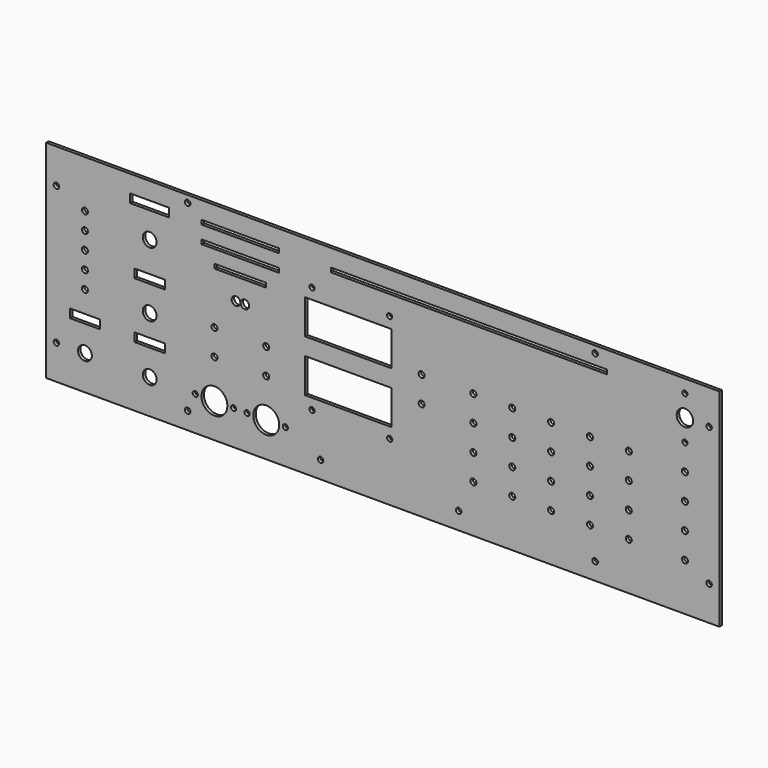
from build123d import *

# Parameters (mm, degrees)
F0_W     = 390
F0_H     = 120
F0_R     = 1.6
F0_R_2   = 4
F0_R_3   = 1.5
F0_R_4   = 7.5
F0_W_2   = 17.5
F0_H_2   = 5
F0_R_5   = 1.75
F0_W_3   = 50
F0_H_3   = 20
F0_R_6   = 2.5
F0_W_4   = 30
F0_H_4   = 2.5
F0_W_5   = 22.5
F0_W_6   = 45
F0_W_7   = 160
F0_R_7   = 4.75
F1_DEPTH = 1.8


with BuildPart() as f1:
    # F0 (on Front) → F1 (new body)
    with BuildSketch(Plane.XZ):
        Rectangle(F0_W, F0_H)
        with Locations((-113, -50)):
            Circle(F0_R, mode=Mode.SUBTRACT)
        with Locations((-189, -40)):
            Circle(F0_R, mode=Mode.SUBTRACT)
        with Locations((-172.5, -40)):
            Circle(F0_R_2, mode=Mode.SUBTRACT)
        with Locations((-135, -40)):
            Circle(F0_R_2, mode=Mode.SUBTRACT)
        with Locations((-108.6, -40)):
            Circle(F0_R_3, mode=Mode.SUBTRACT)
        with Locations((-36, -50)):
            Circle(F0_R, mode=Mode.SUBTRACT)
        with Locations((-97.5, -40)):
            Circle(F0_R_4, mode=Mode.SUBTRACT)
        with Locations((-86.4, -40)):
            Circle(F0_R_3, mode=Mode.SUBTRACT)
        with Locations((-78.6, -40)):
            Circle(F0_R_3, mode=Mode.SUBTRACT)
        with Locations((-67.5, -40)):
            Circle(F0_R_4, mode=Mode.SUBTRACT)
        with Locations((-56.4, -40)):
            Circle(F0_R_3, mode=Mode.SUBTRACT)
        with Locations((-172.5, -22.5)):
            Rectangle(F0_W_2, F0_H_2, mode=Mode.SUBTRACT)
        with Locations((-135, -22.5)):
            Rectangle(F0_W_2, F0_H_2, mode=Mode.SUBTRACT)
        with Locations((-172.5, -7.5)):
            Circle(F0_R_5, mode=Mode.SUBTRACT)
        with Locations((-135, -7.5)):
            Circle(F0_R_2, mode=Mode.SUBTRACT)
        with Locations((-97.5, -17.5)):
            Circle(F0_R_5, mode=Mode.SUBTRACT)
        with Locations((-67.5, -17.5)):
            Circle(F0_R_5, mode=Mode.SUBTRACT)
        with Locations((-41, -26.25)):
            Circle(F0_R_3, mode=Mode.SUBTRACT)
        with Locations((-97.5, -2.5)):
            Circle(F0_R_5, mode=Mode.SUBTRACT)
        with Locations((-67.5, -2.5)):
            Circle(F0_R_5, mode=Mode.SUBTRACT)
        with Locations((-20, -10)):
            Rectangle(F0_W_3, F0_H_3, mode=Mode.SUBTRACT)
        with Locations((44, -50)):
            Circle(F0_R, mode=Mode.SUBTRACT)
        with Locations((52.5, -32.5)):
            Circle(F0_R_5, mode=Mode.SUBTRACT)
        with Locations((75, -32.5)):
            Circle(F0_R_5, mode=Mode.SUBTRACT)
        with Locations((123, -50)):
            Circle(F0_R, mode=Mode.SUBTRACT)
        with Locations((97.5, -32.5)):
            Circle(F0_R_5, mode=Mode.SUBTRACT)
        with Locations((120, -32.5)):
            Circle(F0_R_5, mode=Mode.SUBTRACT)
        with Locations((142.5, -32.5)):
            Circle(F0_R_5, mode=Mode.SUBTRACT)
        with Locations((189, -40)):
            Circle(F0_R, mode=Mode.SUBTRACT)
        with Locations((175, -32.5)):
            Circle(F0_R_5, mode=Mode.SUBTRACT)
        with Locations((4, -26.25)):
            Circle(F0_R_3, mode=Mode.SUBTRACT)
        with Locations((52.5, -17.5)):
            Circle(F0_R_5, mode=Mode.SUBTRACT)
        with Locations((75, -17.5)):
            Circle(F0_R_5, mode=Mode.SUBTRACT)
        with Locations((22.5, -2.5)):
            Circle(F0_R_5, mode=Mode.SUBTRACT)
        with Locations((52.5, -2.5)):
            Circle(F0_R_5, mode=Mode.SUBTRACT)
        with Locations((75, -2.5)):
            Circle(F0_R_5, mode=Mode.SUBTRACT)
        with Locations((97.5, -17.5)):
            Circle(F0_R_5, mode=Mode.SUBTRACT)
        with Locations((120, -17.5)):
            Circle(F0_R_5, mode=Mode.SUBTRACT)
        with Locations((142.5, -17.5)):
            Circle(F0_R_5, mode=Mode.SUBTRACT)
        with Locations((175, -17.5)):
            Circle(F0_R_5, mode=Mode.SUBTRACT)
        with Locations((97.5, -2.5)):
            Circle(F0_R_5, mode=Mode.SUBTRACT)
        with Locations((120, -2.5)):
            Circle(F0_R_5, mode=Mode.SUBTRACT)
        with Locations((142.5, -2.5)):
            Circle(F0_R_5, mode=Mode.SUBTRACT)
        with Locations((175, -2.5)):
            Circle(F0_R_5, mode=Mode.SUBTRACT)
        with Locations((-172.5, 2.5)):
            Circle(F0_R_5, mode=Mode.SUBTRACT)
        with Locations((-172.5, 12.5)):
            Circle(F0_R_5, mode=Mode.SUBTRACT)
        with Locations((-135, 10)):
            Rectangle(F0_W_2, F0_H_2, mode=Mode.SUBTRACT)
        with Locations((-172.5, 22.5)):
            Circle(F0_R_5, mode=Mode.SUBTRACT)
        with Locations((-85, 15)):
            Circle(F0_R_6, mode=Mode.SUBTRACT)
        with Locations((-79.9, 15)):
            Circle(F0_R_6, mode=Mode.SUBTRACT)
        with Locations((-82.5, 28.75)):
            Rectangle(F0_W_4, F0_H_4, mode=Mode.SUBTRACT)
        with Locations((-20, 20)):
            Rectangle(F0_W_3, F0_H_3, mode=Mode.SUBTRACT)
        with Locations((-172.5, 32.5)):
            Circle(F0_R_5, mode=Mode.SUBTRACT)
        with Locations((-189, 40)):
            Circle(F0_R, mode=Mode.SUBTRACT)
        with Locations((-135, 30)):
            Circle(F0_R_2, mode=Mode.SUBTRACT)
        with Locations((-135, 47.5)):
            Rectangle(F0_W_5, F0_H_2, mode=Mode.SUBTRACT)
        with Locations((-113, 56)):
            Circle(F0_R, mode=Mode.SUBTRACT)
        with Locations((-82.5, 38.75)):
            Rectangle(F0_W_6, F0_H_4, mode=Mode.SUBTRACT)
        with Locations((-41, 36.25)):
            Circle(F0_R_3, mode=Mode.SUBTRACT)
        with Locations((-82.5, 48.75)):
            Rectangle(F0_W_6, F0_H_4, mode=Mode.SUBTRACT)
        with Locations((22.5, 12.5)):
            Circle(F0_R_5, mode=Mode.SUBTRACT)
        with Locations((52.5, 12.5)):
            Circle(F0_R_5, mode=Mode.SUBTRACT)
        with Locations((75, 12.5)):
            Circle(F0_R_5, mode=Mode.SUBTRACT)
        with Locations((97.5, 12.5)):
            Circle(F0_R_5, mode=Mode.SUBTRACT)
        with Locations((120, 12.5)):
            Circle(F0_R_5, mode=Mode.SUBTRACT)
        with Locations((142.5, 12.5)):
            Circle(F0_R_5, mode=Mode.SUBTRACT)
        with Locations((175, 12.5)):
            Circle(F0_R_5, mode=Mode.SUBTRACT)
        with Locations((175, 27.5)):
            Circle(F0_R_3, mode=Mode.SUBTRACT)
        with Locations((4, 36.25)):
            Circle(F0_R_3, mode=Mode.SUBTRACT)
        with Locations((50, 48.75)):
            Rectangle(F0_W_7, F0_H_4, mode=Mode.SUBTRACT)
        with Locations((175, 40)):
            Circle(F0_R_7, mode=Mode.SUBTRACT)
        with Locations((189, 40)):
            Circle(F0_R, mode=Mode.SUBTRACT)
        with Locations((123, 56)):
            Circle(F0_R, mode=Mode.SUBTRACT)
        with Locations((175, 52.5)):
            Circle(F0_R_3, mode=Mode.SUBTRACT)
    extrude(amount=F1_DEPTH)


solid = f1.part
